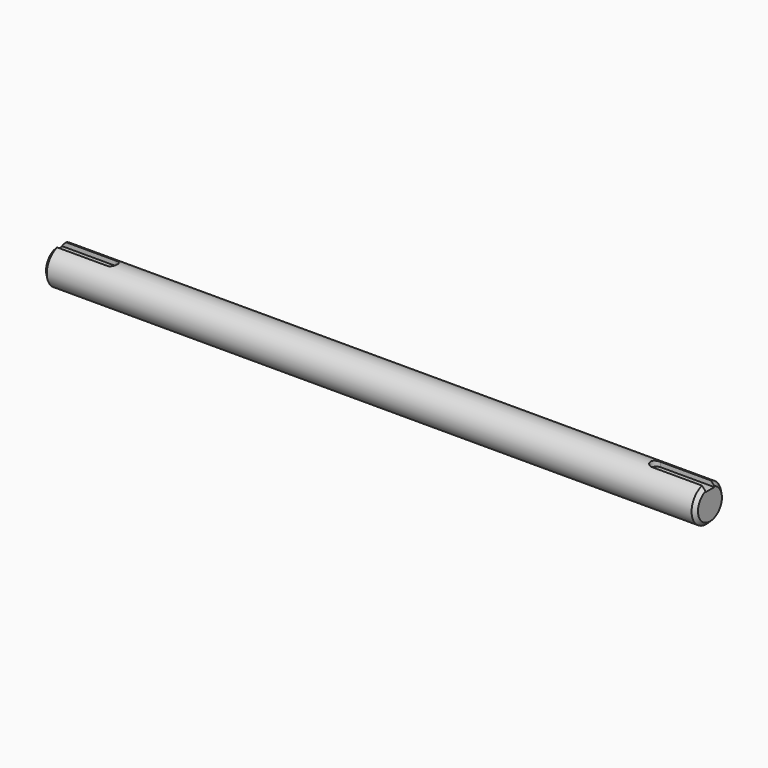
from build123d import *

# Parameters (mm, degrees)
F0_R     = 7.9375
F1_DEPTH = 139.7
F4_DEPTH = 2.38125
F5_SIZE  = 1.524


with BuildPart() as f1:
    # F0 (on Right) → F1 (new body, symmetric)
    with BuildSketch(Plane.YZ):
        Circle(F0_R)
    extrude(amount=F1_DEPTH, both=True)

    # F3 (on offset) → F4 (cut)
    with BuildSketch(Plane.XY.offset(7.9375)):
        with BuildLine():
            ThreePointArc((-116.6876, -2.38125), (-115.0038019773, -1.6837980227), (-114.30635, 0))
            ThreePointArc((-114.30635, 0), (-115.0038019773, 1.6837980227), (-116.6876, 2.38125))
            ThreePointArc((-116.6876, 2.38125), (-119.06885, 0), (-116.6876, -2.38125))
        make_face()
        with BuildLine():
            ThreePointArc((-116.6876, -2.38125), (-119.06885, 0), (-116.6876, 2.38125))
            Line((-116.6876, 2.38125), (-139.7, 2.38125))
            Line((-139.7, 2.38125), (-139.7, -2.38125))
            Line((-139.7, -2.38125), (-116.6876, -2.38125))
        make_face()
        with BuildLine():
            ThreePointArc((116.6876, -2.38125), (118.3713980227, -1.6837980227), (119.06885, 0))
            ThreePointArc((119.06885, 0), (118.3713980227, 1.6837980227), (116.6876, 2.38125))
            Line((116.6876, 2.38125), (116.6876, -2.38125))
        make_face()
        with BuildLine():
            ThreePointArc((116.6876, 2.38125), (118.3713980227, 1.6837980227), (119.06885, 0))
            ThreePointArc((119.06885, 0), (118.3713980227, -1.6837980227), (116.6876, -2.38125))
            Line((116.6876, -2.38125), (139.7, -2.38125))
            Line((139.7, -2.38125), (139.7, 2.38125))
            Line((139.7, 2.38125), (116.6876, 2.38125))
        make_face()
        with BuildLine():
            Line((116.6876, -2.38125), (116.6876, 2.38125))
            ThreePointArc((116.6876, 2.38125), (114.30635, 0), (116.6876, -2.38125))
        make_face()
    extrude(amount=-F4_DEPTH, mode=Mode.SUBTRACT)

    # F5
    f5_edges = [f1.edges().sort_by_distance(p)[0] for p in [
        (-139.7, -4.695888, -6.399417),
        (139.7, -4.695888, -6.399417),
    ]]
    chamfer(f5_edges, length=F5_SIZE)


solid = f1.part
